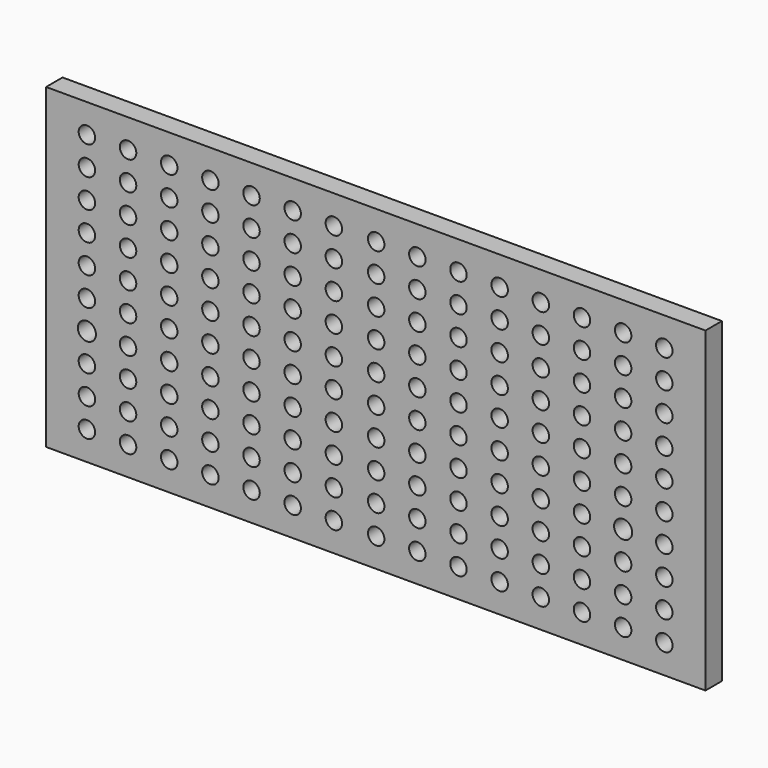
from build123d import *

# Parameters (mm, degrees)
F0_W     = 160.2
F0_H     = 77
F0_R     = 2
F0_R_2   = 2.2
F1_DEPTH = 5


with BuildPart() as f1:
    # F0 (on Front) → F1 (new body)
    with BuildSketch(Plane.XZ):
        with Locations((5.040787, -5.899103)):
            Rectangle(F0_W, F0_H)
        with Locations((-65.140787, -37.399103)):
            Circle(F0_R, mode=Mode.SUBTRACT)
        with Locations((-55.140787, -37.399103)):
            Circle(F0_R, mode=Mode.SUBTRACT)
        with Locations((-45.140787, -37.399103)):
            Circle(F0_R, mode=Mode.SUBTRACT)
        with Locations((-35.140787, -37.399103)):
            Circle(F0_R, mode=Mode.SUBTRACT)
        with Locations((-65.140787, -30.399103)):
            Circle(F0_R, mode=Mode.SUBTRACT)
        with Locations((-55.140787, -30.399103)):
            Circle(F0_R, mode=Mode.SUBTRACT)
        with Locations((-45.140787, -30.399103)):
            Circle(F0_R, mode=Mode.SUBTRACT)
        with Locations((-35.140787, -30.399103)):
            Circle(F0_R, mode=Mode.SUBTRACT)
        with Locations((-25.140787, -37.399103)):
            Circle(F0_R, mode=Mode.SUBTRACT)
        with Locations((-15.140787, -37.399103)):
            Circle(F0_R, mode=Mode.SUBTRACT)
        with Locations((-5.140787, -37.399103)):
            Circle(F0_R, mode=Mode.SUBTRACT)
        with Locations((-25.140787, -30.399103)):
            Circle(F0_R, mode=Mode.SUBTRACT)
        with Locations((-15.140787, -30.399103)):
            Circle(F0_R, mode=Mode.SUBTRACT)
        with Locations((-5.140787, -30.399103)):
            Circle(F0_R, mode=Mode.SUBTRACT)
        with Locations((-65.140787, -23.399103)):
            Circle(F0_R, mode=Mode.SUBTRACT)
        with Locations((-55.140787, -23.399103)):
            Circle(F0_R, mode=Mode.SUBTRACT)
        with Locations((-65.140787, -16.399103)):
            Circle(F0_R_2, mode=Mode.SUBTRACT)
        with Locations((-55.140787, -16.399103)):
            Circle(F0_R, mode=Mode.SUBTRACT)
        with Locations((-45.140787, -23.399103)):
            Circle(F0_R, mode=Mode.SUBTRACT)
        with Locations((-35.140787, -23.399103)):
            Circle(F0_R, mode=Mode.SUBTRACT)
        with Locations((-45.140787, -16.399103)):
            Circle(F0_R, mode=Mode.SUBTRACT)
        with Locations((-35.140787, -16.399103)):
            Circle(F0_R, mode=Mode.SUBTRACT)
        with Locations((-65.140787, -9.399103)):
            Circle(F0_R, mode=Mode.SUBTRACT)
        with Locations((-55.140787, -9.399103)):
            Circle(F0_R, mode=Mode.SUBTRACT)
        with Locations((-45.140787, -9.399103)):
            Circle(F0_R, mode=Mode.SUBTRACT)
        with Locations((-35.140787, -9.399103)):
            Circle(F0_R, mode=Mode.SUBTRACT)
        with Locations((-25.140787, -23.399103)):
            Circle(F0_R, mode=Mode.SUBTRACT)
        with Locations((-15.140787, -23.399103)):
            Circle(F0_R, mode=Mode.SUBTRACT)
        with Locations((-25.140787, -16.399103)):
            Circle(F0_R, mode=Mode.SUBTRACT)
        with Locations((-15.140787, -16.399103)):
            Circle(F0_R, mode=Mode.SUBTRACT)
        with Locations((-5.140787, -23.399103)):
            Circle(F0_R, mode=Mode.SUBTRACT)
        with Locations((-5.140787, -16.399103)):
            Circle(F0_R, mode=Mode.SUBTRACT)
        with Locations((-25.140787, -9.399103)):
            Circle(F0_R, mode=Mode.SUBTRACT)
        with Locations((-15.140787, -9.399103)):
            Circle(F0_R, mode=Mode.SUBTRACT)
        with Locations((-5.140787, -9.399103)):
            Circle(F0_R, mode=Mode.SUBTRACT)
        with Locations((5.140787, -37.399103)):
            Circle(F0_R, mode=Mode.SUBTRACT)
        with Locations((15.140787, -37.399103)):
            Circle(F0_R, mode=Mode.SUBTRACT)
        with Locations((25.140787, -37.399103)):
            Circle(F0_R, mode=Mode.SUBTRACT)
        with Locations((35.140787, -37.399103)):
            Circle(F0_R, mode=Mode.SUBTRACT)
        with Locations((5.140787, -30.399103)):
            Circle(F0_R, mode=Mode.SUBTRACT)
        with Locations((15.140787, -30.399103)):
            Circle(F0_R, mode=Mode.SUBTRACT)
        with Locations((25.140787, -30.399103)):
            Circle(F0_R, mode=Mode.SUBTRACT)
        with Locations((35.140787, -30.399103)):
            Circle(F0_R, mode=Mode.SUBTRACT)
        with Locations((45.140787, -37.399103)):
            Circle(F0_R, mode=Mode.SUBTRACT)
        with Locations((55.140787, -37.399103)):
            Circle(F0_R, mode=Mode.SUBTRACT)
        with Locations((65.140787, -37.399103)):
            Circle(F0_R, mode=Mode.SUBTRACT)
        with Locations((75.140787, -37.399103)):
            Circle(F0_R, mode=Mode.SUBTRACT)
        with Locations((45.140787, -30.399103)):
            Circle(F0_R, mode=Mode.SUBTRACT)
        with Locations((55.140787, -30.399103)):
            Circle(F0_R, mode=Mode.SUBTRACT)
        with Locations((65.140787, -30.399103)):
            Circle(F0_R, mode=Mode.SUBTRACT)
        with Locations((75.140787, -30.399103)):
            Circle(F0_R, mode=Mode.SUBTRACT)
        with Locations((5.140787, -23.399103)):
            Circle(F0_R, mode=Mode.SUBTRACT)
        with Locations((15.140787, -23.399103)):
            Circle(F0_R, mode=Mode.SUBTRACT)
        with Locations((5.140787, -16.399103)):
            Circle(F0_R, mode=Mode.SUBTRACT)
        with Locations((15.140787, -16.399103)):
            Circle(F0_R, mode=Mode.SUBTRACT)
        with Locations((25.140787, -23.399103)):
            Circle(F0_R, mode=Mode.SUBTRACT)
        with Locations((35.140787, -23.399103)):
            Circle(F0_R, mode=Mode.SUBTRACT)
        with Locations((25.140787, -16.399103)):
            Circle(F0_R, mode=Mode.SUBTRACT)
        with Locations((35.140787, -16.399103)):
            Circle(F0_R, mode=Mode.SUBTRACT)
        with Locations((5.140787, -9.399103)):
            Circle(F0_R, mode=Mode.SUBTRACT)
        with Locations((15.140787, -9.399103)):
            Circle(F0_R, mode=Mode.SUBTRACT)
        with Locations((25.140787, -9.399103)):
            Circle(F0_R, mode=Mode.SUBTRACT)
        with Locations((35.140787, -9.399103)):
            Circle(F0_R, mode=Mode.SUBTRACT)
        with Locations((45.140787, -23.399103)):
            Circle(F0_R, mode=Mode.SUBTRACT)
        with Locations((55.140787, -23.399103)):
            Circle(F0_R, mode=Mode.SUBTRACT)
        with Locations((45.140787, -16.399103)):
            Circle(F0_R, mode=Mode.SUBTRACT)
        with Locations((55.140787, -16.399103)):
            Circle(F0_R, mode=Mode.SUBTRACT)
        with Locations((65.140787, -23.399103)):
            Circle(F0_R, mode=Mode.SUBTRACT)
        with Locations((75.140787, -23.399103)):
            Circle(F0_R, mode=Mode.SUBTRACT)
        with Locations((65.140787, -16.399103)):
            Circle(F0_R_2, mode=Mode.SUBTRACT)
        with Locations((75.140787, -16.399103)):
            Circle(F0_R, mode=Mode.SUBTRACT)
        with Locations((45.140787, -9.399103)):
            Circle(F0_R, mode=Mode.SUBTRACT)
        with Locations((55.140787, -9.399103)):
            Circle(F0_R, mode=Mode.SUBTRACT)
        with Locations((65.140787, -9.399103)):
            Circle(F0_R, mode=Mode.SUBTRACT)
        with Locations((75.140787, -9.399103)):
            Circle(F0_R, mode=Mode.SUBTRACT)
        with Locations((-65.140787, -2.399103)):
            Circle(F0_R, mode=Mode.SUBTRACT)
        with Locations((-55.140787, -2.399103)):
            Circle(F0_R, mode=Mode.SUBTRACT)
        with Locations((-45.140787, -2.399103)):
            Circle(F0_R, mode=Mode.SUBTRACT)
        with Locations((-35.140787, -2.399103)):
            Circle(F0_R, mode=Mode.SUBTRACT)
        with Locations((-65.140787, 4.600897)):
            Circle(F0_R, mode=Mode.SUBTRACT)
        with Locations((-55.140787, 4.600897)):
            Circle(F0_R, mode=Mode.SUBTRACT)
        with Locations((-65.140787, 11.600897)):
            Circle(F0_R, mode=Mode.SUBTRACT)
        with Locations((-55.140787, 11.600897)):
            Circle(F0_R, mode=Mode.SUBTRACT)
        with Locations((-45.140787, 4.600897)):
            Circle(F0_R, mode=Mode.SUBTRACT)
        with Locations((-35.140787, 4.600897)):
            Circle(F0_R, mode=Mode.SUBTRACT)
        with Locations((-45.140787, 11.600897)):
            Circle(F0_R, mode=Mode.SUBTRACT)
        with Locations((-35.140787, 11.600897)):
            Circle(F0_R, mode=Mode.SUBTRACT)
        with Locations((-25.140787, -2.399103)):
            Circle(F0_R, mode=Mode.SUBTRACT)
        with Locations((-15.140787, -2.399103)):
            Circle(F0_R, mode=Mode.SUBTRACT)
        with Locations((-5.140787, -2.399103)):
            Circle(F0_R, mode=Mode.SUBTRACT)
        with Locations((-25.140787, 4.600897)):
            Circle(F0_R, mode=Mode.SUBTRACT)
        with Locations((-15.140787, 4.600897)):
            Circle(F0_R, mode=Mode.SUBTRACT)
        with Locations((-25.140787, 11.600897)):
            Circle(F0_R, mode=Mode.SUBTRACT)
        with Locations((-15.140787, 11.600897)):
            Circle(F0_R, mode=Mode.SUBTRACT)
        with Locations((-5.140787, 4.600897)):
            Circle(F0_R, mode=Mode.SUBTRACT)
        with Locations((-5.140787, 11.600897)):
            Circle(F0_R, mode=Mode.SUBTRACT)
        with Locations((-65.140787, 18.600897)):
            Circle(F0_R, mode=Mode.SUBTRACT)
        with Locations((-55.140787, 18.600897)):
            Circle(F0_R, mode=Mode.SUBTRACT)
        with Locations((-45.140787, 18.600897)):
            Circle(F0_R, mode=Mode.SUBTRACT)
        with Locations((-35.140787, 18.600897)):
            Circle(F0_R, mode=Mode.SUBTRACT)
        with Locations((-65.140787, 25.600897)):
            Circle(F0_R, mode=Mode.SUBTRACT)
        with Locations((-55.140787, 25.600897)):
            Circle(F0_R, mode=Mode.SUBTRACT)
        with Locations((-45.140787, 25.600897)):
            Circle(F0_R, mode=Mode.SUBTRACT)
        with Locations((-35.140787, 25.600897)):
            Circle(F0_R, mode=Mode.SUBTRACT)
        with Locations((-25.140787, 18.600897)):
            Circle(F0_R, mode=Mode.SUBTRACT)
        with Locations((-15.140787, 18.600897)):
            Circle(F0_R, mode=Mode.SUBTRACT)
        with Locations((-5.140787, 18.600897)):
            Circle(F0_R, mode=Mode.SUBTRACT)
        with Locations((-25.140787, 25.600897)):
            Circle(F0_R, mode=Mode.SUBTRACT)
        with Locations((-15.140787, 25.600897)):
            Circle(F0_R, mode=Mode.SUBTRACT)
        with Locations((-5.140787, 25.600897)):
            Circle(F0_R, mode=Mode.SUBTRACT)
        with Locations((5.140787, -2.399103)):
            Circle(F0_R, mode=Mode.SUBTRACT)
        with Locations((15.140787, -2.399103)):
            Circle(F0_R, mode=Mode.SUBTRACT)
        with Locations((25.140787, -2.399103)):
            Circle(F0_R, mode=Mode.SUBTRACT)
        with Locations((35.140787, -2.399103)):
            Circle(F0_R, mode=Mode.SUBTRACT)
        with Locations((5.140787, 4.600897)):
            Circle(F0_R, mode=Mode.SUBTRACT)
        with Locations((15.140787, 4.600897)):
            Circle(F0_R, mode=Mode.SUBTRACT)
        with Locations((5.140787, 11.600897)):
            Circle(F0_R, mode=Mode.SUBTRACT)
        with Locations((15.140787, 11.600897)):
            Circle(F0_R, mode=Mode.SUBTRACT)
        with Locations((25.140787, 4.600897)):
            Circle(F0_R, mode=Mode.SUBTRACT)
        with Locations((35.140787, 4.600897)):
            Circle(F0_R, mode=Mode.SUBTRACT)
        with Locations((25.140787, 11.600897)):
            Circle(F0_R, mode=Mode.SUBTRACT)
        with Locations((35.140787, 11.600897)):
            Circle(F0_R, mode=Mode.SUBTRACT)
        with Locations((45.140787, -2.399103)):
            Circle(F0_R, mode=Mode.SUBTRACT)
        with Locations((55.140787, -2.399103)):
            Circle(F0_R, mode=Mode.SUBTRACT)
        with Locations((65.140787, -2.399103)):
            Circle(F0_R, mode=Mode.SUBTRACT)
        with Locations((75.140787, -2.399103)):
            Circle(F0_R, mode=Mode.SUBTRACT)
        with Locations((45.140787, 4.600897)):
            Circle(F0_R, mode=Mode.SUBTRACT)
        with Locations((55.140787, 4.600897)):
            Circle(F0_R, mode=Mode.SUBTRACT)
        with Locations((45.140787, 11.600897)):
            Circle(F0_R, mode=Mode.SUBTRACT)
        with Locations((55.140787, 11.600897)):
            Circle(F0_R, mode=Mode.SUBTRACT)
        with Locations((65.140787, 4.600897)):
            Circle(F0_R, mode=Mode.SUBTRACT)
        with Locations((75.140787, 4.600897)):
            Circle(F0_R, mode=Mode.SUBTRACT)
        with Locations((65.140787, 11.600897)):
            Circle(F0_R, mode=Mode.SUBTRACT)
        with Locations((75.140787, 11.600897)):
            Circle(F0_R, mode=Mode.SUBTRACT)
        with Locations((5.140787, 18.600897)):
            Circle(F0_R, mode=Mode.SUBTRACT)
        with Locations((15.140787, 18.600897)):
            Circle(F0_R, mode=Mode.SUBTRACT)
        with Locations((25.140787, 18.600897)):
            Circle(F0_R, mode=Mode.SUBTRACT)
        with Locations((35.140787, 18.600897)):
            Circle(F0_R, mode=Mode.SUBTRACT)
        with Locations((5.140787, 25.600897)):
            Circle(F0_R, mode=Mode.SUBTRACT)
        with Locations((15.140787, 25.600897)):
            Circle(F0_R, mode=Mode.SUBTRACT)
        with Locations((25.140787, 25.600897)):
            Circle(F0_R, mode=Mode.SUBTRACT)
        with Locations((35.140787, 25.600897)):
            Circle(F0_R, mode=Mode.SUBTRACT)
        with Locations((45.140787, 18.600897)):
            Circle(F0_R, mode=Mode.SUBTRACT)
        with Locations((55.140787, 18.600897)):
            Circle(F0_R, mode=Mode.SUBTRACT)
        with Locations((65.140787, 18.600897)):
            Circle(F0_R, mode=Mode.SUBTRACT)
        with Locations((75.140787, 18.600897)):
            Circle(F0_R, mode=Mode.SUBTRACT)
        with Locations((45.140787, 25.600897)):
            Circle(F0_R, mode=Mode.SUBTRACT)
        with Locations((55.140787, 25.600897)):
            Circle(F0_R, mode=Mode.SUBTRACT)
        with Locations((65.140787, 25.600897)):
            Circle(F0_R, mode=Mode.SUBTRACT)
        with Locations((75.140787, 25.600897)):
            Circle(F0_R, mode=Mode.SUBTRACT)
    extrude(amount=F1_DEPTH)


solid = f1.part
